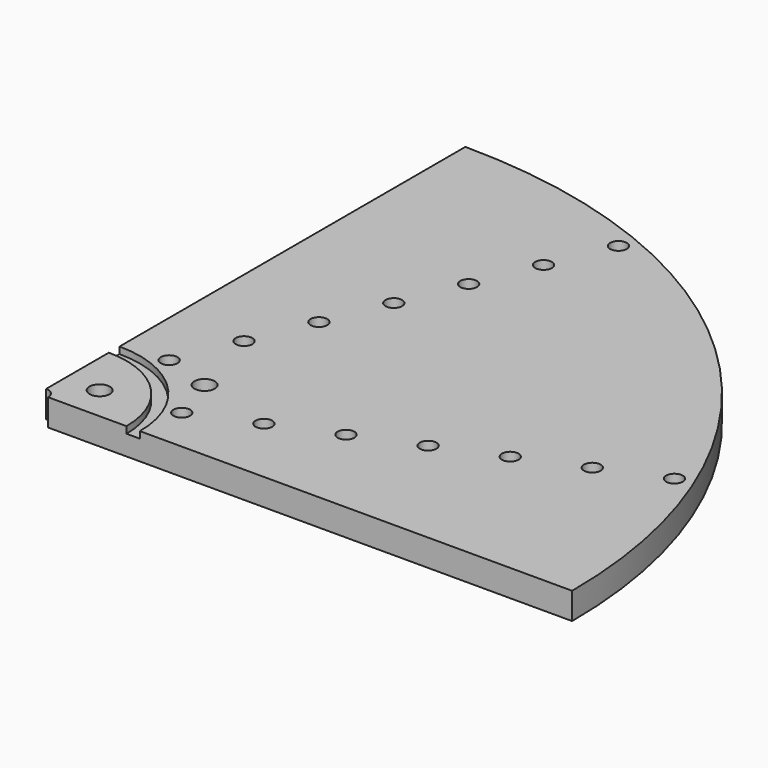
from build123d import *

# Parameters (mm, degrees)
F0_R     = 2.5
F0_R_2   = 3.05
F1_DEPTH = 8
F2_DEPTH = 2


with BuildPart() as f1:
    # F0 (on Top) → F1 (new body)
    with BuildSketch(Plane.XY):
        with BuildLine():
            Line((30.5, 0), (160, 0))
            ThreePointArc((160, 0), (113.137085, 113.137085), (0, 160))
            Line((0, 160), (0, 30.5))
            ThreePointArc((0, 30.5), (21.566757, 21.566757), (30.5, 0))
        make_face()
        with Locations((32.335784, 13.39392)):
            Circle(F0_R, mode=Mode.SUBTRACT)
        with Locations((13.39392, 32.335784)):
            Circle(F0_R, mode=Mode.SUBTRACT)
        with Locations((27.718586, 27.718586)):
            Circle(F0_R_2, mode=Mode.SUBTRACT)
        with Locations((50.813374, 21.047589)):
            Circle(F0_R, mode=Mode.SUBTRACT)
        with Locations((69.290965, 28.701257)):
            Circle(F0_R, mode=Mode.SUBTRACT)
        with Locations((21.047589, 50.813374)):
            Circle(F0_R, mode=Mode.SUBTRACT)
        with Locations((28.701257, 69.290965)):
            Circle(F0_R, mode=Mode.SUBTRACT)
        with Locations((87.768556, 36.354926)):
            Circle(F0_R, mode=Mode.SUBTRACT)
        with Locations((106.246146, 44.008595)):
            Circle(F0_R, mode=Mode.SUBTRACT)
        with Locations((124.723737, 51.662263)):
            Circle(F0_R, mode=Mode.SUBTRACT)
        with Locations((143.201328, 59.315932)):
            Circle(F0_R, mode=Mode.SUBTRACT)
        with Locations((36.354926, 87.768556)):
            Circle(F0_R, mode=Mode.SUBTRACT)
        with Locations((44.008595, 106.246146)):
            Circle(F0_R, mode=Mode.SUBTRACT)
        with Locations((51.662263, 124.723737)):
            Circle(F0_R, mode=Mode.SUBTRACT)
        with Locations((59.315932, 143.201328)):
            Circle(F0_R, mode=Mode.SUBTRACT)
        with BuildLine():
            Line((3, 0), (26.5, 0))
            ThreePointArc((26.5, 0), (18.73833, 18.73833), (0, 26.5))
            Line((0, 26.5), (0, 3))
            ThreePointArc((0, 3), (2.12132, 2.12132), (3, 0))
        make_face()
        with Locations((10.253048, 10.253048)):
            Circle(F0_R_2, mode=Mode.SUBTRACT)
        with BuildLine():
            Line((26.5, 0), (30.5, 0))
            ThreePointArc((30.5, 0), (21.566757, 21.566757), (0, 30.5))
            Line((0, 30.5), (0, 26.5))
            ThreePointArc((0, 26.5), (18.73833, 18.73833), (26.5, 0))
        make_face()
    extrude(amount=-F1_DEPTH)

    # F0 (on Top) → F2 (cut)
    with BuildSketch(Plane.XY):
        with BuildLine():
            Line((26.5, 0), (30.5, 0))
            ThreePointArc((30.5, 0), (21.566757, 21.566757), (0, 30.5))
            Line((0, 30.5), (0, 26.5))
            ThreePointArc((0, 26.5), (18.73833, 18.73833), (26.5, 0))
        make_face()
    extrude(amount=-F2_DEPTH, mode=Mode.SUBTRACT)


solid = f1.part
